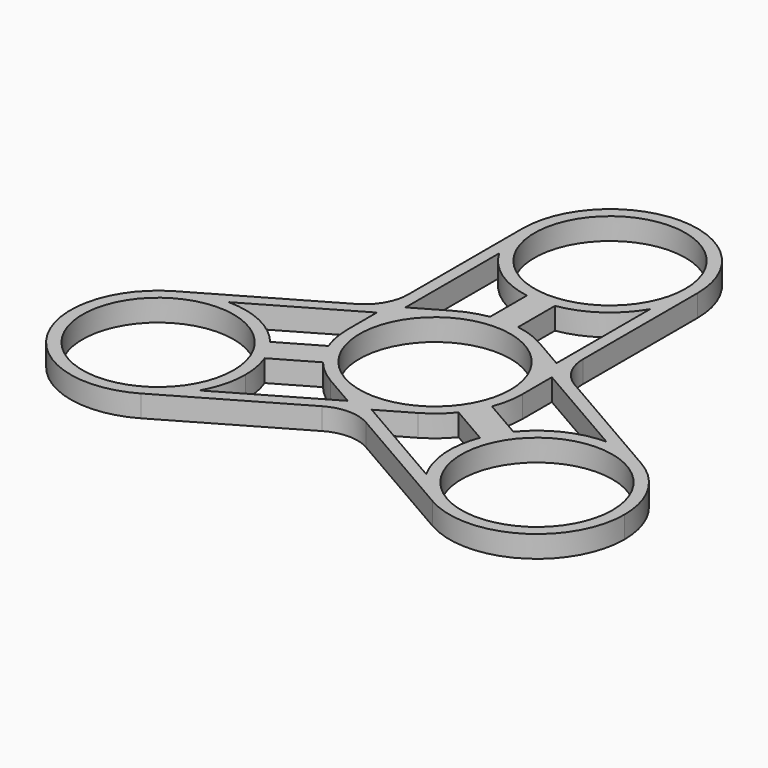
from build123d import *

# Parameters (mm, degrees)
F0_R     = 10.9601
F1_DEPTH = 3.175


with BuildPart() as f1:
    # F0 (on Top) → F1 (new body)
    with BuildSketch(Plane.XY):
        with BuildLine():
            Line((-6.35, 10.998523), (-10.9601, 8.33688))
            Line((-10.9601, 8.33688), (-10.9601, 25.33391))
            ThreePointArc((-10.9601, 25.33391), (-12.257309, 28.426092), (-12.7, 31.75))
            Line((-12.7, 31.75), (-12.7, 10.998523))
            ThreePointArc((-12.7, 10.998523), (-13.550739, 7.823523), (-15.875, 5.499261))
            Line((-15.875, 5.499261), (-33.846307, -4.876477))
            ThreePointArc((-33.846307, -4.876477), (-30.746372, -3.597905), (-27.41986, -3.17523))
            Line((-27.41986, -3.17523), (-12.7, 5.323285))
            Line((-12.7, 5.323285), (-12.7, 0))
            ThreePointArc((-12.7, 0), (-10.998523, 6.35), (-6.35, 10.998523))
        make_face()
        with BuildLine():
            Line((12.7, 10.998523), (12.7, 31.75))
            ThreePointArc((12.7, 31.75), (12.257309, 28.426092), (10.9601, 25.33391))
            Line((10.9601, 25.33391), (10.9601, 8.33688))
            Line((10.9601, 8.33688), (6.35, 10.998523))
            ThreePointArc((6.35, 10.998523), (10.998523, 6.35), (12.7, 0))
            Line((12.7, 0), (12.7, 5.323285))
            Line((12.7, 5.323285), (27.41986, -3.17523))
            ThreePointArc((27.41986, -3.17523), (30.746372, -3.597905), (33.846307, -4.876477))
            Line((33.846307, -4.876477), (15.875, 5.499261))
            ThreePointArc((15.875, 5.499261), (13.550739, 7.823523), (12.7, 10.998523))
        make_face()
        with BuildLine():
            ThreePointArc((-12.7, 31.75), (-12.257309, 28.426092), (-10.9601, 25.33391))
            ThreePointArc((-10.9601, 25.33391), (-7.18075, 21.274943), (-2.032, 19.213614))
            ThreePointArc((-2.032, 19.213614), (0, 19.05), (2.032, 19.213614))
            ThreePointArc((2.032, 19.213614), (7.18075, 21.274943), (10.9601, 25.33391))
            ThreePointArc((10.9601, 25.33391), (12.257309, 28.426092), (12.7, 31.75))
            ThreePointArc((12.7, 31.75), (0, 44.45), (-12.7, 31.75))
        make_face()
        with Locations((0, 31.75)):
            Circle(F0_R, mode=Mode.SUBTRACT)
        with BuildLine():
            ThreePointArc((2.032, 19.213614), (0, 19.05), (-2.032, 19.213614))
            Line((-2.032, 19.213614), (-2.032, 12.536386))
            ThreePointArc((-2.032, 12.536386), (0, 12.7), (2.032, 12.536386))
            Line((2.032, 12.536386), (2.032, 19.213614))
        make_face()
        with BuildLine():
            ThreePointArc((-2.032, 12.536386), (-4.260955, 11.963873), (-6.35, 10.998523))
            ThreePointArc((-6.35, 10.998523), (-10.998523, 6.35), (-12.7, 0))
            ThreePointArc((-12.7, 0), (-12.491496, -2.291841), (-11.872829, -4.508429))
            ThreePointArc((-11.872829, -4.508429), (-10.998523, -6.35), (-9.840829, -8.027957))
            ThreePointArc((-9.840829, -8.027957), (-8.230541, -9.672032), (-6.35, -10.998523))
            ThreePointArc((-6.35, -10.998523), (0, -12.7), (6.35, -10.998523))
            ThreePointArc((6.35, -10.998523), (8.230541, -9.672032), (9.840829, -8.027957))
            ThreePointArc((9.840829, -8.027957), (10.998523, -6.35), (11.872829, -4.508429))
            ThreePointArc((11.872829, -4.508429), (12.491496, -2.291841), (12.7, 0))
            ThreePointArc((12.7, 0), (10.998523, 6.35), (6.35, 10.998523))
            ThreePointArc((6.35, 10.998523), (4.260955, 11.963873), (2.032, 12.536386))
            ThreePointArc((2.032, 12.536386), (0, 12.7), (-2.032, 12.536386))
        make_face()
        Circle(F0_R, mode=Mode.SUBTRACT)
        with BuildLine():
            Line((17.655478, -7.847043), (11.872829, -4.508429))
            ThreePointArc((11.872829, -4.508429), (10.998523, -6.35), (9.840829, -8.027957))
            Line((9.840829, -8.027957), (15.623478, -11.366571))
            ThreePointArc((15.623478, -11.366571), (16.497784, -9.525), (17.655478, -7.847043))
        make_face()
        with BuildLine():
            ThreePointArc((6.35, -10.998523), (0, -12.7), (-6.35, -10.998523))
            Line((-6.35, -10.998523), (-1.7399, -13.660165))
            Line((-1.7399, -13.660165), (-16.45976, -22.15868))
            ThreePointArc((-16.45976, -22.15868), (-18.489063, -24.828187), (-21.146307, -26.873523))
            Line((-21.146307, -26.873523), (-3.175, -16.497784))
            ThreePointArc((-3.175, -16.497784), (0, -15.647045), (3.175, -16.497784))
            Line((3.175, -16.497784), (21.146307, -26.873523))
            ThreePointArc((21.146307, -26.873523), (18.489063, -24.828187), (16.45976, -22.15868))
            Line((16.45976, -22.15868), (1.7399, -13.660165))
            Line((1.7399, -13.660165), (6.35, -10.998523))
        make_face()
        with BuildLine():
            ThreePointArc((-9.840829, -8.027957), (-10.998523, -6.35), (-11.872829, -4.508429))
            Line((-11.872829, -4.508429), (-17.655478, -7.847043))
            ThreePointArc((-17.655478, -7.847043), (-16.497784, -9.525), (-15.623478, -11.366571))
            Line((-15.623478, -11.366571), (-9.840829, -8.027957))
        make_face()
        with BuildLine():
            ThreePointArc((-15.623478, -11.366571), (-16.497784, -9.525), (-17.655478, -7.847043))
            ThreePointArc((-17.655478, -7.847043), (-22.015016, -4.418759), (-27.41986, -3.17523))
            ThreePointArc((-27.41986, -3.17523), (-30.746372, -3.597905), (-33.846307, -4.876477))
            ThreePointArc((-33.846307, -4.876477), (-38.494829, -22.225), (-21.146307, -26.873523))
            ThreePointArc((-21.146307, -26.873523), (-18.489063, -24.828187), (-16.45976, -22.15868))
            ThreePointArc((-16.45976, -22.15868), (-15.219211, -19.125066), (-14.796307, -15.875))
            ThreePointArc((-14.796307, -15.875), (-15.004811, -13.583159), (-15.623478, -11.366571))
        make_face()
        with Locations((-27.496307, -15.875)):
            Circle(F0_R, mode=Mode.SUBTRACT)
        with BuildLine():
            ThreePointArc((40.196307, -15.875), (38.494829, -9.525), (33.846307, -4.876477))
            ThreePointArc((33.846307, -4.876477), (30.746372, -3.597905), (27.41986, -3.17523))
            ThreePointArc((27.41986, -3.17523), (22.015016, -4.418759), (17.655478, -7.847043))
            ThreePointArc((17.655478, -7.847043), (16.497784, -9.525), (15.623478, -11.366571))
            ThreePointArc((15.623478, -11.366571), (14.834266, -16.856183), (16.45976, -22.15868))
            ThreePointArc((16.45976, -22.15868), (18.489063, -24.828187), (21.146307, -26.873523))
            ThreePointArc((21.146307, -26.873523), (33.846307, -26.873523), (40.196307, -15.875))
        make_face()
        with Locations((27.496307, -15.875)):
            Circle(F0_R, mode=Mode.SUBTRACT)
    extrude(amount=F1_DEPTH)


solid = f1.part
